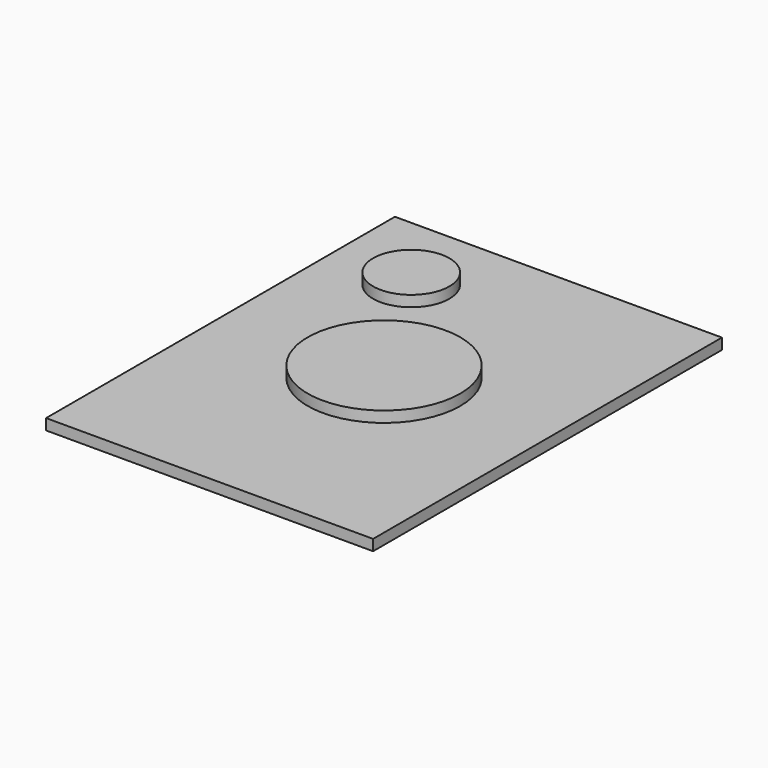
from build123d import *

# Parameters (mm, degrees)
F0_W     = 300
F0_H     = 400
F1_DEPTH = 10
F2_R     = 35
F3_DEPTH = 10
F4_R     = 70
F5_DEPTH = 10


with BuildPart() as f1:
    # F0 (on Top) → F1 (new body)
    with BuildSketch(Plane.XY):
        Rectangle(F0_W, F0_H)
    extrude(amount=F1_DEPTH)

    # F2 (on face) → F3 (join)
    with BuildSketch(Plane.XY.offset(10)):
        with Locations((-75, 125)):
            Circle(F2_R)
    extrude(amount=F3_DEPTH)

    # F4 (on face) → F5 (join)
    with BuildSketch(Plane.XY.offset(10)):
        Circle(F4_R)
    extrude(amount=F5_DEPTH)


solid = f1.part
